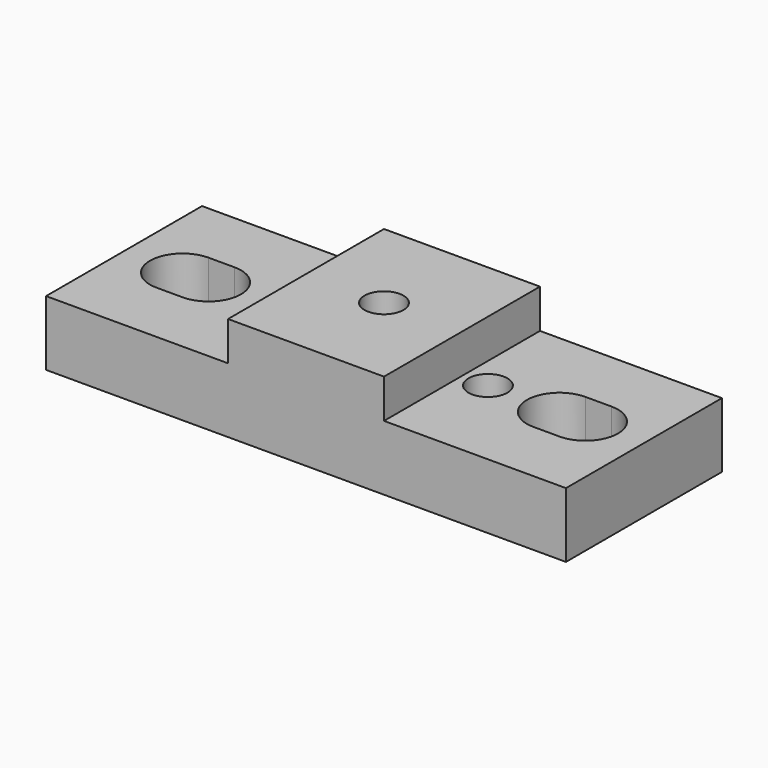
from build123d import *

# Parameters (mm, degrees)
F0_W     = 12
F0_H     = 15
F0_R     = 1.5
F0_W_2   = 14
F1_DEPTH = 5
F2_DEPTH = 8


with BuildPart() as f1:
    # F0 (on Top) → F1 (new body)
    with BuildSketch(Plane.XY):
        Rectangle(F0_W, F0_H)
        Circle(F0_R, mode=Mode.SUBTRACT)
        with Locations((-13, 0)):
            Rectangle(F0_W_2, F0_H)
        with BuildLine():
            ThreePointArc((-15.5, -2.5), (-18, 0), (-15.5, 2.5))
            Line((-15.5, 2.5), (-13.5, 2.5))
            ThreePointArc((-13.5, 2.5), (-11.732233, 1.767767), (-11, 0))
            ThreePointArc((-11, 0), (-11.732233, -1.767767), (-13.5, -2.5))
            Line((-13.5, -2.5), (-15.5, -2.5))
        make_face(mode=Mode.SUBTRACT)
        with Locations((-8, 0)):
            Circle(F0_R, mode=Mode.SUBTRACT)
        with Locations((13, 0)):
            Rectangle(F0_W_2, F0_H)
        with Locations((8, 0)):
            Circle(F0_R, mode=Mode.SUBTRACT)
        with BuildLine():
            ThreePointArc((15.5, 2.5), (17.267767, 1.767767), (18, 0))
            ThreePointArc((18, 0), (17.267767, -1.767767), (15.5, -2.5))
            Line((15.5, -2.5), (13.5, -2.5))
            ThreePointArc((13.5, -2.5), (11, 0), (13.5, 2.5))
            Line((13.5, 2.5), (15.5, 2.5))
        make_face(mode=Mode.SUBTRACT)
    extrude(amount=F1_DEPTH)

    # F0 (on Top) → F2 (join)
    with BuildSketch(Plane.XY):
        Rectangle(F0_W, F0_H)
        Circle(F0_R, mode=Mode.SUBTRACT)
    extrude(amount=F2_DEPTH)


solid = f1.part
